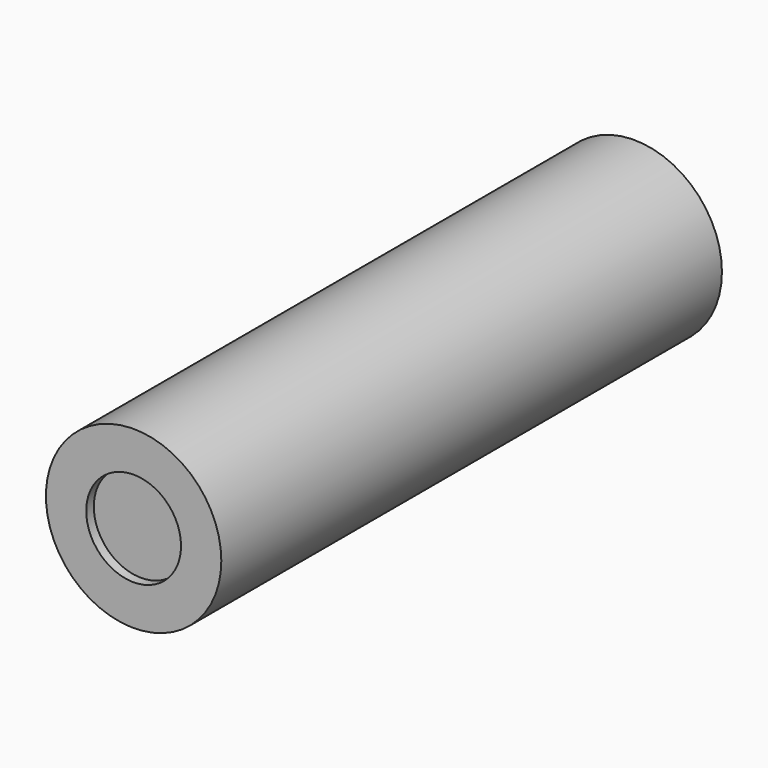
from build123d import *

# Parameters (mm, degrees)
F0_R     = 9.25
F1_DEPTH = 66
F2_R     = 5
F3_DEPTH = 1
F4_R     = 5
F5_DEPTH = 1


with BuildPart() as f1:
    # F0 (on Front) → F1 (new body)
    with BuildSketch(Plane.XZ):
        Circle(F0_R)
    extrude(amount=F1_DEPTH)

    # F2 (on Front) → F3 (cut)
    with BuildSketch(Plane.XZ):
        Circle(F2_R)
    extrude(amount=F3_DEPTH, mode=Mode.SUBTRACT)

    # F4 (on face) → F5 (cut)
    with BuildSketch(Plane.XZ.offset(66)):
        Circle(F4_R)
    extrude(amount=-F5_DEPTH, mode=Mode.SUBTRACT)


solid = f1.part
